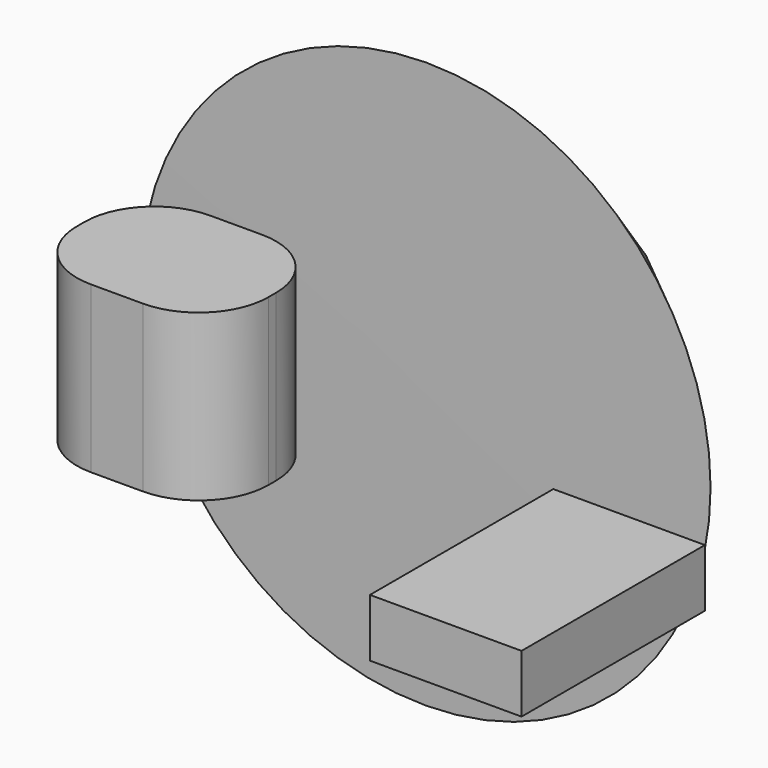
from build123d import *

# Parameters (mm, degrees)
F3_DEPTH = 25.4
F4_W     = 23.2773851603
F4_H     = 35.1957660168
F5_DEPTH = 8.89


with BuildPart() as f1:
    # F0 (on Top) → F1 (revolve)
    with BuildSketch(Plane.XY):
        Polygon((-26.9164890051, 8.1341043115), (-27.2122733295, 51.0230138898), (-70.3969672322, 8.1341043115), align=None)
    revolve(axis=Axis((-27.0643811673, 29.5785591006, 0), (0.0068963584, -0.9999762198, 0)))


with BuildPart() as f3:
    # F2 (on Top) → F3 (new body)
    with BuildSketch(Plane.XY):
        with BuildLine():
            Line((-35.9897436637, -11.671599932), (-43.9875580206, -11.671599932))
            ThreePointArc((-43.9875580206, -11.671599932), (-51.558301073, -14.8075043816), (-54.6942055225, -22.378247434))
            Line((-54.6942055225, -22.378247434), (-54.6942055225, -23.8385121609))
            ThreePointArc((-54.6942055225, -23.8385121609), (-51.5547416887, -31.4178483271), (-43.9754055225, -34.5573121609))
            Line((-43.9754055225, -34.5573121609), (-35.9897436637, -34.5573121609))
            ThreePointArc((-35.9897436637, -34.5573121609), (-28.4104074975, -31.4178483271), (-25.2709436637, -23.8385121609))
            Line((-25.2709436637, -23.8385121609), (-25.2709436637, -22.390399932))
            ThreePointArc((-25.2709436637, -22.390399932), (-28.4104074975, -14.8110637658), (-35.9897436637, -11.671599932))
        make_face()
    extrude(amount=F3_DEPTH)


with BuildPart() as f5:
    # F4 (on Top) → F5 (new body)
    with BuildSketch(Plane.XY):
        with Locations((24.3601957336, -34.2578412965)):
            Rectangle(F4_W, F4_H)
    extrude(amount=F5_DEPTH)


solid = Compound([f1.part, f3.part, f5.part])
